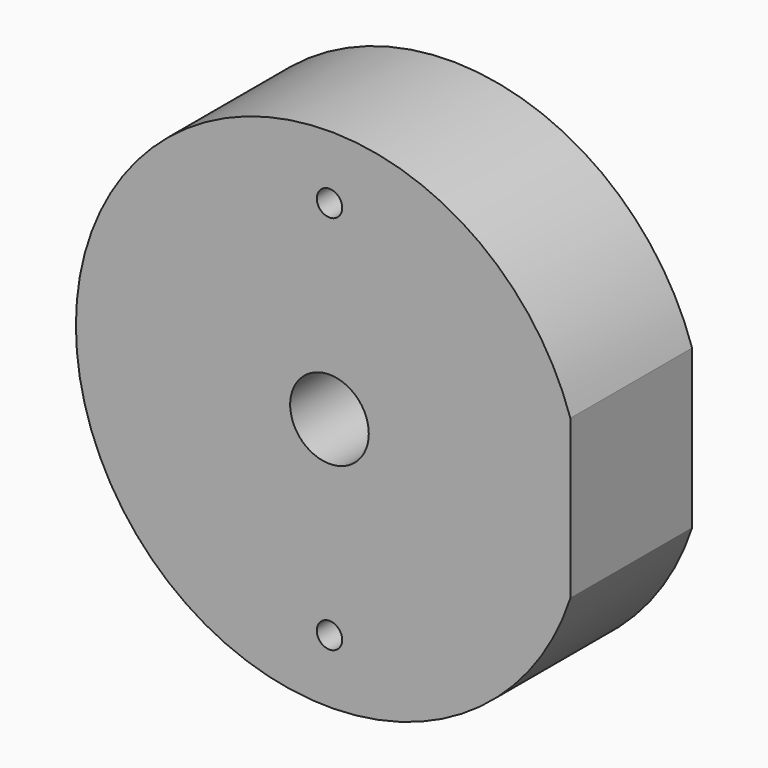
from build123d import *

# Parameters (mm, degrees)
F0_R     = 1
F0_R_2   = 3.1
F1_DEPTH = 6


with BuildPart() as f1:
    # F0 (on Front) → F1 (new body, symmetric)
    with BuildSketch(Plane.XZ):
        with BuildLine():
            Line((19, -6.244998), (19, 6.244998))
            ThreePointArc((19, 6.244998), (-20, 0), (19, -6.244998))
        make_face()
        with Locations((0, -15)):
            Circle(F0_R, mode=Mode.SUBTRACT)
        Circle(F0_R_2, mode=Mode.SUBTRACT)
        with Locations((0, 15)):
            Circle(F0_R, mode=Mode.SUBTRACT)
    extrude(amount=F1_DEPTH, both=True)


solid = f1.part
